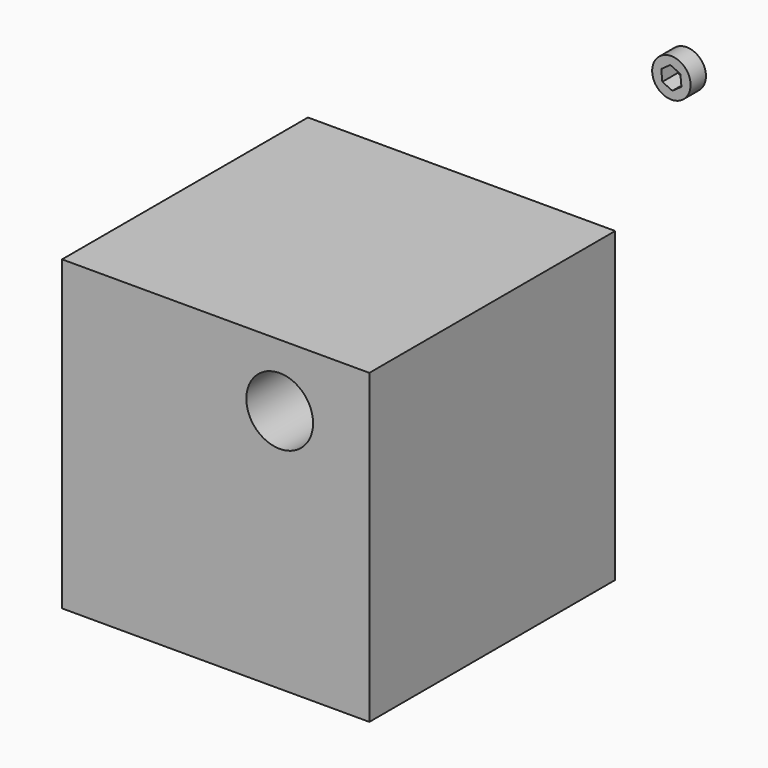
from build123d import *

# Parameters (mm, degrees)
F0_W     = 50.8
F0_H     = 50.8
F1_DEPTH = 50.8
F2_R     = 5.519028
F3_DEPTH = 50.8
F4_R     = 3.175
F5_DEPTH = 3.175
F7_DEPTH = 3.175


with BuildPart() as f1:
    # F0 (on Front) → F1 (new body)
    with BuildSketch(Plane.XZ):
        with Locations((0.979315, -5.141297)):
            Rectangle(F0_W, F0_H)
    extrude(amount=F1_DEPTH)

    # F2 (on face) → F3 (cut)
    with BuildSketch(Plane.XZ):
        with Locations((11.555911, 9.891078)):
            Circle(F2_R)
    extrude(amount=F3_DEPTH, mode=Mode.SUBTRACT)


with BuildPart() as f5:
    # F4 (on Front) → F5 (new body)
    with BuildSketch(Plane.XZ):
        with Locations((38.20262, 47.674084)):
            Circle(F4_R)
    extrude(amount=F5_DEPTH)

    # F6 (on face) → F7 (cut)
    with BuildSketch(Plane.XZ.offset(3.175)):
        Polygon((38.374963, 45.849116), (39.86926, 46.910853), (39.696918, 48.73582), (38.030278, 49.499052), (36.535981, 48.437315), (36.708323, 46.612348), align=None)
        Polygon((38.374963, 45.849116), (39.86926, 46.910853), (39.696918, 48.73582), (38.030278, 49.499052), (36.535981, 48.437315), (36.708323, 46.612348), align=None)
    extrude(amount=-F7_DEPTH, mode=Mode.SUBTRACT)


solid = Compound([f1.part, f5.part])
